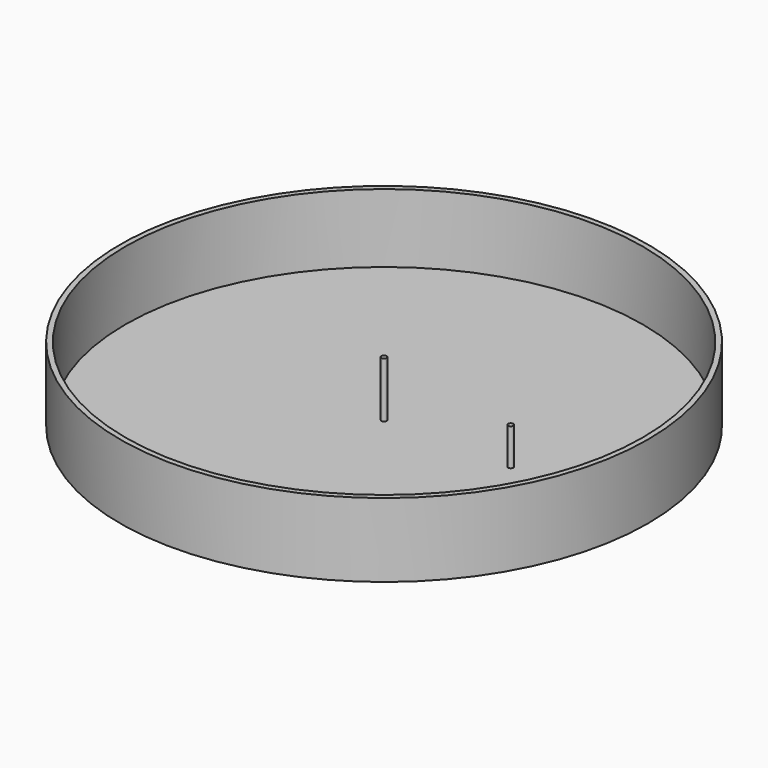
from build123d import *

# Parameters (mm, degrees)
F0_R     = 100
F1_DEPTH = 28
F2_T     = -2
F3_R     = 1
F4_DEPTH = 21
F5_R     = 1
F6_DEPTH = 14


with BuildPart() as f1:
    # F0 (on Top) → F1 (new body)
    with BuildSketch(Plane.XY):
        Circle(F0_R)
    extrude(amount=F1_DEPTH)

    # F2
    f2_openings = [f1.faces().sort_by_distance(p)[0] for p in [
        (0, 0, 28),
    ]]
    offset(amount=F2_T, openings=f2_openings)

    # F3 (on face) → F4 (join)
    with BuildSketch(Plane.XY.offset(2)):
        Circle(F3_R)
    extrude(amount=F4_DEPTH)

    # F5 (on face) → F6 (join)
    with BuildSketch(Plane.XY.offset(2)):
        with Locations((48, 0)):
            Circle(F5_R)
    extrude(amount=F6_DEPTH)


solid = f1.part
